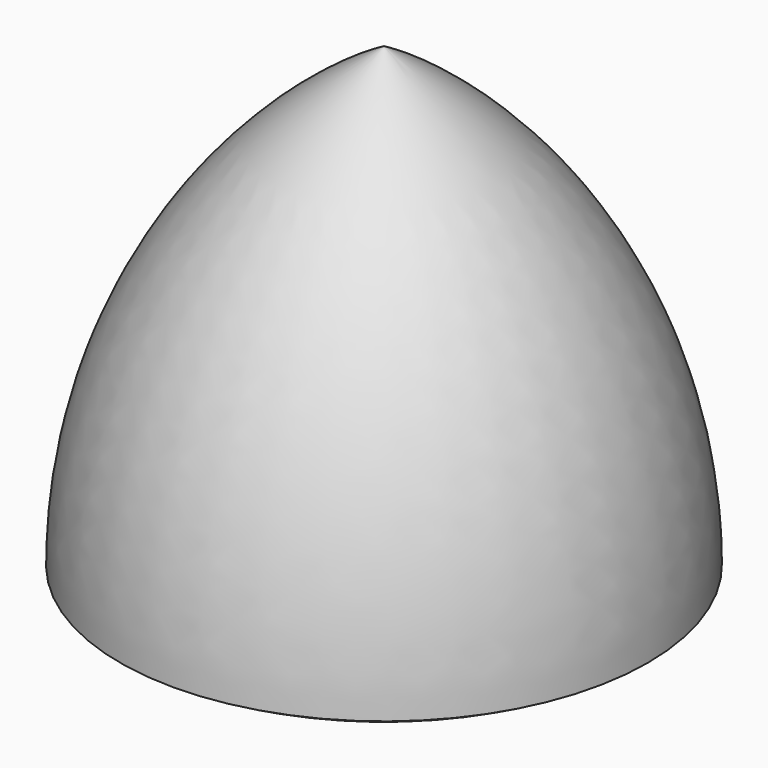
from build123d import *


with BuildPart() as f1:
    # F0 (on Front) → F1 (revolve)
    with BuildSketch(Plane.XZ):
        with BuildLine():
            Line((0, 100.126274), (0, -73.29752))
            ThreePointArc((0, -73.29752), (44.885381, -67.388247), (86.711897, -50.063137))
            ThreePointArc((86.711897, -50.063137), (63.477514, 36.64876), (0, 100.126274))
        make_face()
    revolve(axis=Axis((0, 0, 13.414377), (0, 0, -1)))


solid = f1.part
